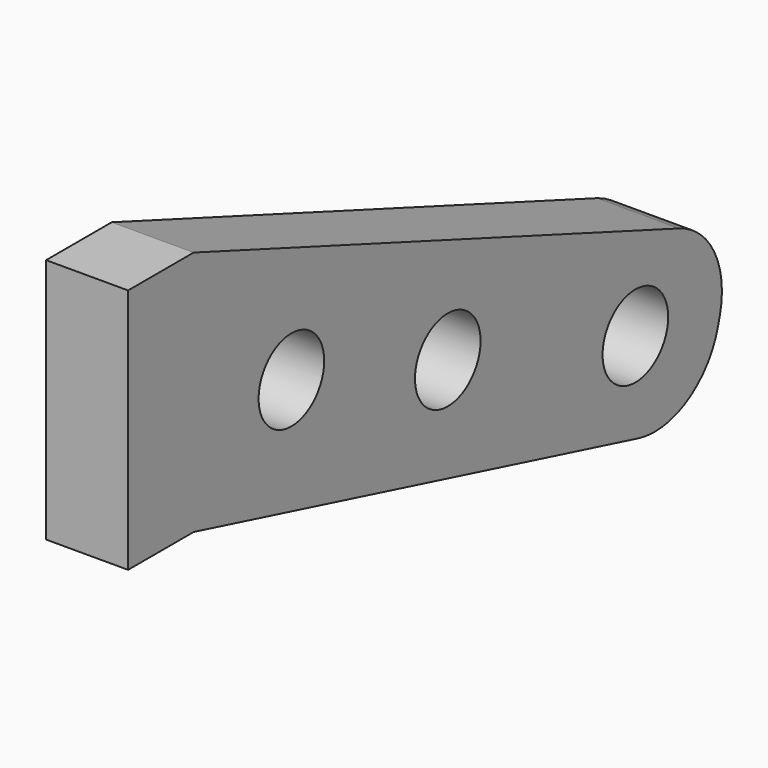
from build123d import *

# Parameters (mm, degrees)
F0_R     = 3.175
F1_DEPTH = 6.35


with BuildPart() as f1:
    # F0 (on Right) → F1 (new body)
    with BuildSketch(Plane.YZ):
        with BuildLine():
            Line((-30.651312, -8.435449), (-37.001312, -8.435449))
            Line((-37.001312, -8.435449), (-37.001312, -27.485449))
            Line((-37.001312, -27.485449), (-30.651312, -27.485449))
            Line((-30.651312, -27.485449), (12.387215, -38.597949))
            ThreePointArc((12.387215, -38.597949), (17.199731, -37.919668), (20.123076, -34.037088))
            Line((20.123076, -34.037088), (20.278758, -33.434136))
            ThreePointArc((20.278758, -33.434136), (19.759287, -28.907571), (16.341838, -25.894155))
            Line((16.341838, -25.894155), (-30.651312, -8.435449))
        make_face()
        with Locations((12.103499, -31.497858)):
            Circle(F0_R, mode=Mode.SUBTRACT)
        with Locations((-6.057868, -25.747444)):
            Circle(F0_R, mode=Mode.SUBTRACT)
        with Locations((-21.19234, -20.955433)):
            Circle(F0_R, mode=Mode.SUBTRACT)
    extrude(amount=F1_DEPTH)


solid = f1.part
